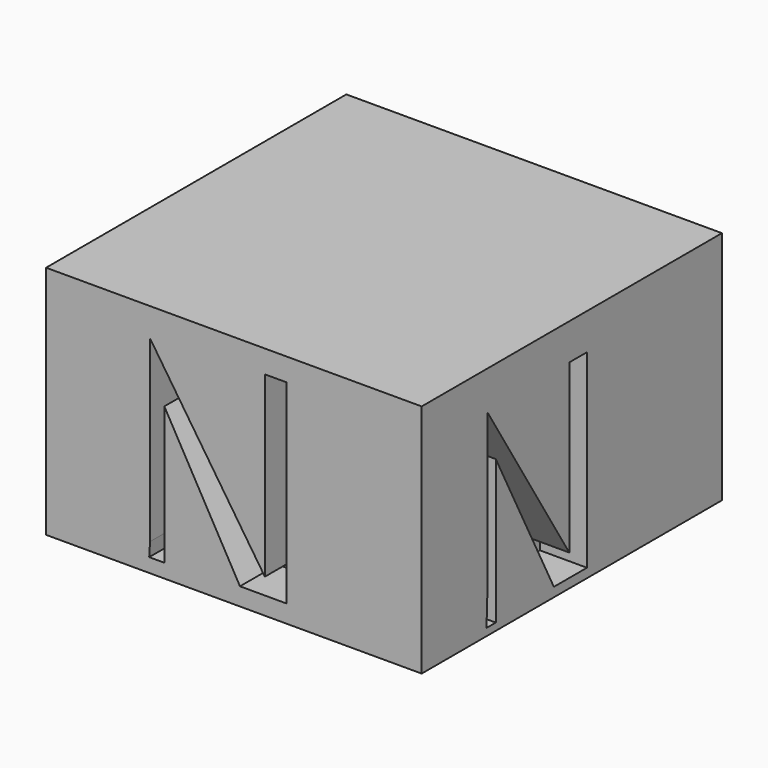
from build123d import *

# Parameters (mm, degrees)
F0_W      = 151.9949287176
F0_H      = 151.8344208598
F1_DEPTH  = 25.4
F2_DEPTH  = 25.4
F3_W      = 151.9949287176
F3_H      = 151.8344208598
F4_DEPTH  = 25.4
F5_DEPTH  = 25.4
F6_W      = 151.9949287176
F6_H      = 151.8344208598
F7_DEPTH  = 25.4
F9_DEPTH  = 25.4
F10_W     = 151.9949287176
F10_H     = 127
F11_DEPTH = 25.4
F12_W     = 151.9949287176
F12_H     = 127
F13_DEPTH = 25.4
F15_DEPTH = 25.4
F16_W     = 202.6344208598
F16_H     = 127
F17_DEPTH = 25.4
F18_W     = 202.6344208598
F18_H     = 127
F19_DEPTH = 25.4
F21_DEPTH = 25.4
F22_DEPTH = 25.4


with BuildPart() as f1:
    # F0 (on Top) → F1 (new body)
    with BuildSketch(Plane.XY):
        with Locations((0, 0.2407543361)):
            Rectangle(F0_W, F0_H)
    extrude(amount=F1_DEPTH)

    # F2 (add): a face of the model
    f2_faces = [f1.faces().sort_by_distance(p)[0] for p in [
        (0, 0.2407543361, 25.4),
    ]]
    extrude(f2_faces, amount=F2_DEPTH)

    # F3 (on face) → F4 (join)
    with BuildSketch(Plane.XY.offset(50.8)):
        with Locations((0, 0.2407543361)):
            Rectangle(F3_W, F3_H)
        Polygon((-54.7822974622, -60.2384917438), (-54.3631203473, -51.7334751785), (-54.3631203473, 43.2750284672), (20.9696162492, -43.1563518941), (29.0977004915, -51.7212189734), (30.7523328811, 43.9543314278), (45.7475273532, 43.6950014908), (45.7475273532, -59.0233169496), (20.4021297395, -59.0233169496), (-46.2220385671, 21.2365556508), (-46.2220385671, -60.2384917438), align=None, mode=Mode.SUBTRACT)
    extrude(amount=F4_DEPTH)

    # F5 (add): a face of the model
    f5_faces = [f1.faces().sort_by_distance(p)[0] for p in [
        (0, 0.2407543361, 0),
    ]]
    extrude(f5_faces, amount=F5_DEPTH)

    # F6 (on face) → F7 (join)
    with BuildSketch(Plane(origin=(0, 0, -25.4), x_dir=(1, 0, 0), z_dir=(0, 0, -1))):
        with Locations((0, -0.2407543361)):
            Rectangle(F6_W, F6_H)
        Polygon((-46.6125570238, -64.9226754904), (-59.8847456276, -64.9226754904), (-17.829503864, 58.8444620371), (4.2375051416, 58.8444620371), (56.6866248846, -65.7222047448), (40.2163229883, -65.7222047448), (19.2686561495, -24.6263965964), (-34.2998057604, -24.6263965964), align=None, mode=Mode.SUBTRACT)
    extrude(amount=F7_DEPTH)

    # F8 (on face) → F9 (join)
    with BuildSketch(Plane(origin=(0, 0, -25.4), x_dir=(1, 0, 0), z_dir=(0, 0, -1))):
        Polygon((13.0323283374, -4.5461022683), (-8.3950581029, 51.8086031079), (-27.544008353, -4.5461022683), align=None)
    extrude(amount=F9_DEPTH)

    # F10 (on face) → F11 (join)
    with BuildSketch(Plane.XZ.offset(75.6764560938)):
        with Locations((0, 12.7)):
            Rectangle(F10_W, F10_H)
        Polygon((-45.7281582057, -43.2857945561), (-45.261003077, -35.732280463), (-45.261003077, 60.8546175063), (16.7235676199, -32.2795137763), (16.7235676199, 63.9280602336), (28.3728465438, 63.9280602336), (28.3728465438, -41.1987639964), (3.2877130434, -41.1987639964), (-37.5465713441, 31.0532525182), (-37.5465713441, -43.2857945561), align=None, mode=Mode.SUBTRACT)
    extrude(amount=F11_DEPTH)

    # F12 (on face) → F13 (join)
    with BuildSketch(Plane(origin=(0, 76.157964766, 0), x_dir=(-1, 0, 0), z_dir=(0, 1, 0))):
        with Locations((0, 12.7)):
            Rectangle(F12_W, F12_H)
        Polygon((-41.00927338, -34.1472737491), (-51.6761131585, -33.7340943515), (-18.3558836579, 56.9384694099), (3.0622561462, 59.0705610812), (53.1387478113, -36.8585251272), (38.4384579957, -36.8585251272), (18.0476587266, 0.3876684059), (-25.5533028394, 0.3876684059), align=None, mode=Mode.SUBTRACT)
    extrude(amount=F13_DEPTH)

    # F14 (on face) → F15 (join)
    with BuildSketch(Plane(origin=(0, 76.157964766, 0), x_dir=(-1, 0, 0), z_dir=(0, 1, 0))):
        Polygon((-7.2864516565, 50.0721470643), (-17.2580555081, 22.9369532317), (1.9618875813, 23.7948019058), align=None)
    extrude(amount=F15_DEPTH)

    # F16 (on face) → F17 (join)
    with BuildSketch(Plane.YZ.offset(75.9974643588)):
        with Locations((0.2407543361, 12.7)):
            Rectangle(F16_W, F16_H)
        Polygon((-57.3391616344, -46.8861833215), (-56.8041577935, -32.4410460889), (-56.8041577935, 55.5672757328), (-1.4311361592, -33.7785594165), (-1.4311361592, 56.6372871399), (10.4727260768, 56.6372871399), (10.4727260768, 55.9685304761), (10.4727260768, -45.8161756396), (-11.8637345731, -45.8161756396), (-51.0528497398, 30.823295936), (-51.0528497398, -46.8861833215), align=None, mode=Mode.SUBTRACT)
    extrude(amount=F17_DEPTH)

    # F18 (on face) → F19 (join)
    with BuildSketch(Plane(origin=(-75.9974643588, 0, 0), x_dir=(0, -1, 0), z_dir=(-1, 0, 0))):
        with Locations((-0.2407543361, 12.7)):
            Rectangle(F18_W, F18_H)
        Polygon((-44.0442897379, -38.8611070812), (-55.2793927491, -38.8611070812), (-25.1853633672, 62.5223442912), (-3.3839091193, 62.5223442912), (45.1677963138, -40.5998714268), (30.7226609439, -40.5998714268), (7.8511973843, 4.6080499887), (-30.5354129523, 4.6080499887), align=None, mode=Mode.SUBTRACT)
    extrude(amount=F19_DEPTH)

    # F20 (on face) → F21 (join)
    with BuildSketch(Plane(origin=(-75.9974643588, 0, 0), x_dir=(0, -1, 0), z_dir=(-1, 0, 0))):
        Polygon((-14.065767224, 48.3413906964), (-23.1149289757, 17.8557671607), (-5.3965207189, 18.1462336332), align=None)
    extrude(amount=F21_DEPTH)

    # F22 (add): a face of the model
    f22_faces = [f1.faces().sort_by_distance(p)[0] for p in [
        (33.0748285463, -57.5754775221, 50.8),
    ]]
    extrude(f22_faces, amount=F22_DEPTH)


solid = f1.part
